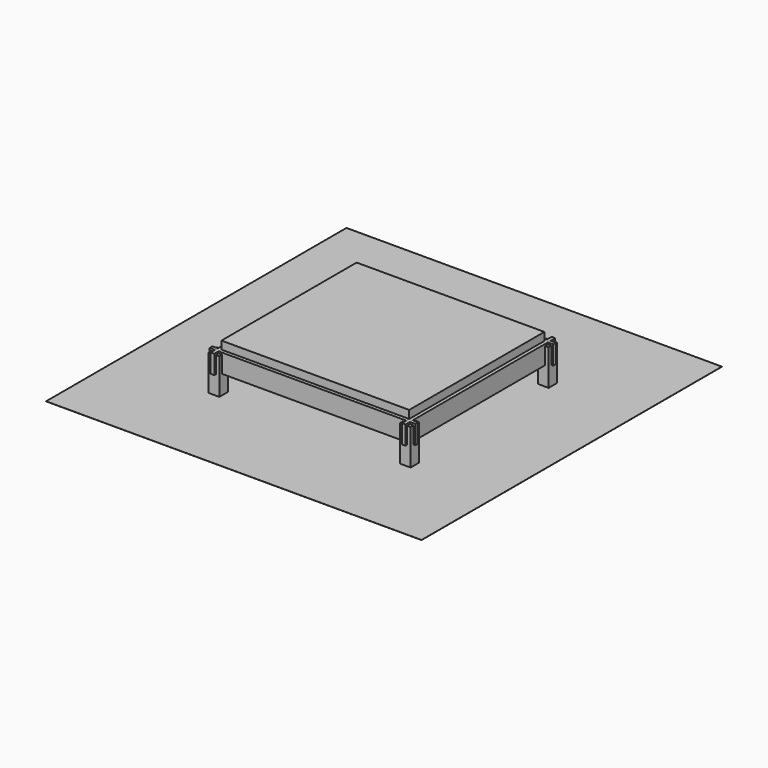
from build123d import *

# Parameters (mm, degrees)
BOX001_W                 = 38
BOX001_H                 = 38
BOX001_DEPTH             = 380
BOX002_W                 = 38
BOX002_H                 = 38
BOX002_DEPTH             = 380
BOX003_W                 = 38
BOX003_H                 = 38
BOX003_DEPTH             = 380
BOX004_W                 = 38
BOX004_H                 = 38
BOX004_DEPTH             = 200
BOX005_W                 = 38
BOX005_H                 = 38
BOX005_DEPTH             = 200
BOX_W                    = 76
BOX_H                    = 76
BOX_DEPTH                = 200
FUSION_PLACEMENT_ANGLE   = 90
BOX019_W                 = 2000
BOX019_H                 = 1800
BOX019_DEPTH             = 200
BOX020_W                 = 2000
BOX020_H                 = 180
BOX020_DEPTH             = 18
BOX021_W                 = 240
BOX021_H                 = 78
BOX021_DEPTH             = 78
BOX024_W                 = 200
BOX024_H                 = 38
BOX024_DEPTH             = 100
BOX023_W                 = 200
BOX023_H                 = 38
BOX023_DEPTH             = 100
BOX017_W                 = 1992
BOX017_H                 = 38
BOX017_DEPTH             = 200
BOX027_W                 = 200
BOX027_H                 = 38
BOX027_DEPTH             = 100
BOX026_W                 = 200
BOX026_H                 = 38
BOX026_DEPTH             = 100
BOX015_W                 = 2192
BOX015_H                 = 38
BOX015_DEPTH             = 200
BOX022_W                 = 1800
BOX022_H                 = 100
BOX022_DEPTH             = 18
ARRAY_X_COUNT            = 11
ARRAY_X_PITCH            = 180
ARRAY_Y_COUNT            = 2
ARRAY_Y_PITCH            = 1
BOX031_W                 = 2000
BOX031_H                 = 38
BOX031_DEPTH             = 58
BOX033_W                 = 4000
BOX033_H                 = 4000
BOX033_DEPTH             = 1
CLONE_PLACEMENT_ANGLE    = 90
CLONE001_PLACEMENT_ANGLE = 180
CLONE002_PLACEMENT_ANGLE = 90


with BuildPart() as box001:
    # Box001 → Box001 (new body)
    with BuildSketch(Plane(origin=(-38, 0, 0), x_dir=(1, 0, 0), z_dir=(0, 0, 1))):
        with Locations((19, 19)):
            Rectangle(BOX001_W, BOX001_H)
    extrude(amount=BOX001_DEPTH)


with BuildPart() as box002:
    # Box002 → Box002 (new body)
    with BuildSketch(Plane(origin=(38, 76, 0), x_dir=(1, 0, 0), z_dir=(0, 0, 1))):
        with Locations((19, 19)):
            Rectangle(BOX002_W, BOX002_H)
    extrude(amount=BOX002_DEPTH)


with BuildPart() as box003:
    # Box003 → Box003 (new body)
    with BuildSketch(Plane(origin=(-38, 76, 0), x_dir=(1, 0, 0), z_dir=(0, 0, 1))):
        with Locations((19, 19)):
            Rectangle(BOX003_W, BOX003_H)
    extrude(amount=BOX003_DEPTH)


with BuildPart() as cube004:
    # Box004 → Box004 (new body)
    with BuildSketch(Plane(origin=(-38, 38, 0), x_dir=(1, 0, 0), z_dir=(0, 0, 1))):
        with Locations((19, 19)):
            Rectangle(BOX004_W, BOX004_H)
    extrude(amount=BOX004_DEPTH)


with BuildPart() as cube005:
    # Box005 → Box005 (new body)
    with BuildSketch(Plane(origin=(0, 76, 0), x_dir=(1, 0, 0), z_dir=(0, 0, 1))):
        with Locations((19, 19)):
            Rectangle(BOX005_W, BOX005_H)
    extrude(amount=BOX005_DEPTH)


with BuildPart() as obj1:
    # Box → Box (new body)
    with BuildSketch(Plane.XY):
        with Locations((38, 38)):
            Rectangle(BOX_W, BOX_H)
    extrude(amount=BOX_DEPTH)

    # Fusion: union Box001, Box002, Box003, Cube004, Cube005
    add(box001.part)
    add(box002.part)
    add(box003.part)
    add(cube004.part)
    add(cube005.part)


with BuildPart() as obj1_1:
    # Fusion placement: moved
    add(obj1.part.moved(Location((76, 0, 0))).rotate(Axis((76, 0, 0), (0, 0, 1)), FUSION_PLACEMENT_ANGLE))


with BuildPart() as obj2:
    # Box019 → Box019 (new body)
    with BuildSketch(Plane(origin=(38, 38, 285), x_dir=(1, 0, 0), z_dir=(0, 0, 1))):
        with Locations((1000, 900)):
            Rectangle(BOX019_W, BOX019_H)
    extrude(amount=BOX019_DEPTH)


with BuildPart() as obj3:
    # Box020 → Box020 (new body)
    with BuildSketch(Plane(origin=(40, 860, 240), x_dir=(1, 0, 0), z_dir=(0, 0, 1))):
        with Locations((1000, 90)):
            Rectangle(BOX020_W, BOX020_H)
    extrude(amount=BOX020_DEPTH)


with BuildPart() as obj4:
    # Box021 → Box021 (new body)
    with BuildSketch(Plane(origin=(1100, 910, 0), x_dir=(0, 0, 1), z_dir=(-1, 0, 0))):
        with Locations((120, 39)):
            Rectangle(BOX021_W, BOX021_H)
    extrude(amount=BOX021_DEPTH)


with BuildPart() as h001:
    # Box024 → Box024 (new body)
    with BuildSketch(Plane(origin=(-100, 1838, 200), x_dir=(1, 0, 0), z_dir=(0, 0, 1))):
        with Locations((100, 19)):
            Rectangle(BOX024_W, BOX024_H)
    extrude(amount=BOX024_DEPTH)


with BuildPart() as v001:
    # Box023 → Box023 (new body)
    with BuildSketch(Plane(origin=(-100, 0, 200), x_dir=(1, 0, 0), z_dir=(0, 0, 1))):
        with Locations((100, 19)):
            Rectangle(BOX023_W, BOX023_H)
    extrude(amount=BOX023_DEPTH)


with BuildPart() as s_v:
    # Box017 → Box017 (new body)
    with BuildSketch(Plane(origin=(38, -58, 200), x_dir=(0, 1, 0), z_dir=(0, 0, 1))):
        with Locations((996, 19)):
            Rectangle(BOX017_W, BOX017_H)
    extrude(amount=BOX017_DEPTH)

    # Cut: cut V001
    add(v001.part, mode=Mode.SUBTRACT)

    # Cut001: cut H001
    add(h001.part, mode=Mode.SUBTRACT)


with BuildPart() as l003:
    # Box027 → Box027 (new body)
    with BuildSketch(Plane(origin=(2076, -100, 300), x_dir=(0, 1, 0), z_dir=(0, 0, 1))):
        with Locations((100, 19)):
            Rectangle(BOX027_W, BOX027_H)
    extrude(amount=BOX027_DEPTH)


with BuildPart() as l002:
    # Box026 → Box026 (new body)
    with BuildSketch(Plane(origin=(38, -100, 300), x_dir=(0, 1, 0), z_dir=(0, 0, 1))):
        with Locations((100, 19)):
            Rectangle(BOX026_W, BOX026_H)
    extrude(amount=BOX026_DEPTH)


with BuildPart() as s_r:
    # Box015 → Box015 (new body)
    with BuildSketch(Plane(origin=(-58, 0, 200), x_dir=(1, 0, 0), z_dir=(0, 0, 1))):
        with Locations((1096, 19)):
            Rectangle(BOX015_W, BOX015_H)
    extrude(amount=BOX015_DEPTH)

    # Cut003: cut L002
    add(l002.part, mode=Mode.SUBTRACT)

    # Cut004: cut L003
    add(l003.part, mode=Mode.SUBTRACT)


with BuildPart() as array:
    # Box022 → Box022 (new body)
    with BuildSketch(Plane(origin=(110, 0, 277), x_dir=(0, 1, 0), z_dir=(0, 0, -1))):
        with Locations((900, 50)):
            Rectangle(BOX022_W, BOX022_H)
    extrude(amount=BOX022_DEPTH)


with BuildPart() as array_copy1:
    # Array X: instance of Array
    add(array.part.moved(Location(Vector(1, 0, 0) * (1 * ARRAY_X_PITCH))))


with BuildPart() as array_copy2:
    # Array X: instance of Array
    add(array.part.moved(Location(Vector(1, 0, 0) * (2 * ARRAY_X_PITCH))))


with BuildPart() as array_copy3:
    # Array X: instance of Array
    add(array.part.moved(Location(Vector(1, 0, 0) * (3 * ARRAY_X_PITCH))))


with BuildPart() as array_copy4:
    # Array X: instance of Array
    add(array.part.moved(Location(Vector(1, 0, 0) * (4 * ARRAY_X_PITCH))))


with BuildPart() as array_copy5:
    # Array X: instance of Array
    add(array.part.moved(Location(Vector(1, 0, 0) * (5 * ARRAY_X_PITCH))))


with BuildPart() as array_copy6:
    # Array X: instance of Array
    add(array.part.moved(Location(Vector(1, 0, 0) * (6 * ARRAY_X_PITCH))))


with BuildPart() as array_copy7:
    # Array X: instance of Array
    add(array.part.moved(Location(Vector(1, 0, 0) * (7 * ARRAY_X_PITCH))))


with BuildPart() as array_copy8:
    # Array X: instance of Array
    add(array.part.moved(Location(Vector(1, 0, 0) * (8 * ARRAY_X_PITCH))))


with BuildPart() as array_copy9:
    # Array X: instance of Array
    add(array.part.moved(Location(Vector(1, 0, 0) * (9 * ARRAY_X_PITCH))))


with BuildPart() as array_copy10:
    # Array X: instance of Array
    add(array.part.moved(Location(Vector(1, 0, 0) * (10 * ARRAY_X_PITCH))))


with BuildPart() as array_copy11:
    # Array Y: instance of Array
    add(array.part.moved(Location(Vector(0, 1, 0) * (1 * ARRAY_Y_PITCH))))


with BuildPart() as array_copy12:
    # Array Y: instance of Array copy1
    add(array_copy1.part.moved(Location(Vector(0, 1, 0) * (1 * ARRAY_Y_PITCH))))


with BuildPart() as array_copy13:
    # Array Y: instance of Array copy2
    add(array_copy2.part.moved(Location(Vector(0, 1, 0) * (1 * ARRAY_Y_PITCH))))


with BuildPart() as array_copy14:
    # Array Y: instance of Array copy3
    add(array_copy3.part.moved(Location(Vector(0, 1, 0) * (1 * ARRAY_Y_PITCH))))


with BuildPart() as array_copy15:
    # Array Y: instance of Array copy4
    add(array_copy4.part.moved(Location(Vector(0, 1, 0) * (1 * ARRAY_Y_PITCH))))


with BuildPart() as array_copy16:
    # Array Y: instance of Array copy5
    add(array_copy5.part.moved(Location(Vector(0, 1, 0) * (1 * ARRAY_Y_PITCH))))


with BuildPart() as array_copy17:
    # Array Y: instance of Array copy6
    add(array_copy6.part.moved(Location(Vector(0, 1, 0) * (1 * ARRAY_Y_PITCH))))


with BuildPart() as array_copy18:
    # Array Y: instance of Array copy7
    add(array_copy7.part.moved(Location(Vector(0, 1, 0) * (1 * ARRAY_Y_PITCH))))


with BuildPart() as array_copy19:
    # Array Y: instance of Array copy8
    add(array_copy8.part.moved(Location(Vector(0, 1, 0) * (1 * ARRAY_Y_PITCH))))


with BuildPart() as array_copy20:
    # Array Y: instance of Array copy9
    add(array_copy9.part.moved(Location(Vector(0, 1, 0) * (1 * ARRAY_Y_PITCH))))


with BuildPart() as array_copy21:
    # Array Y: instance of Array copy10
    add(array_copy10.part.moved(Location(Vector(0, 1, 0) * (1 * ARRAY_Y_PITCH))))


with BuildPart() as array_1:
    # Array placement: moved
    add(array.part.moved(Location((0, 38, 0))))


with BuildPart() as array_copy1_1:
    # Array placement: moved
    add(array_copy1.part.moved(Location((0, 38, 0))))


with BuildPart() as array_copy2_1:
    # Array placement: moved
    add(array_copy2.part.moved(Location((0, 38, 0))))


with BuildPart() as array_copy3_1:
    # Array placement: moved
    add(array_copy3.part.moved(Location((0, 38, 0))))


with BuildPart() as array_copy4_1:
    # Array placement: moved
    add(array_copy4.part.moved(Location((0, 38, 0))))


with BuildPart() as array_copy5_1:
    # Array placement: moved
    add(array_copy5.part.moved(Location((0, 38, 0))))


with BuildPart() as array_copy6_1:
    # Array placement: moved
    add(array_copy6.part.moved(Location((0, 38, 0))))


with BuildPart() as array_copy7_1:
    # Array placement: moved
    add(array_copy7.part.moved(Location((0, 38, 0))))


with BuildPart() as array_copy8_1:
    # Array placement: moved
    add(array_copy8.part.moved(Location((0, 38, 0))))


with BuildPart() as array_copy9_1:
    # Array placement: moved
    add(array_copy9.part.moved(Location((0, 38, 0))))


with BuildPart() as array_copy10_1:
    # Array placement: moved
    add(array_copy10.part.moved(Location((0, 38, 0))))


with BuildPart() as array_copy11_1:
    # Array placement: moved
    add(array_copy11.part.moved(Location((0, 38, 0))))


with BuildPart() as array_copy12_1:
    # Array placement: moved
    add(array_copy12.part.moved(Location((0, 38, 0))))


with BuildPart() as array_copy13_1:
    # Array placement: moved
    add(array_copy13.part.moved(Location((0, 38, 0))))


with BuildPart() as array_copy14_1:
    # Array placement: moved
    add(array_copy14.part.moved(Location((0, 38, 0))))


with BuildPart() as array_copy15_1:
    # Array placement: moved
    add(array_copy15.part.moved(Location((0, 38, 0))))


with BuildPart() as array_copy16_1:
    # Array placement: moved
    add(array_copy16.part.moved(Location((0, 38, 0))))


with BuildPart() as array_copy17_1:
    # Array placement: moved
    add(array_copy17.part.moved(Location((0, 38, 0))))


with BuildPart() as array_copy18_1:
    # Array placement: moved
    add(array_copy18.part.moved(Location((0, 38, 0))))


with BuildPart() as array_copy19_1:
    # Array placement: moved
    add(array_copy19.part.moved(Location((0, 38, 0))))


with BuildPart() as array_copy20_1:
    # Array placement: moved
    add(array_copy20.part.moved(Location((0, 38, 0))))


with BuildPart() as array_copy21_1:
    # Array placement: moved
    add(array_copy21.part.moved(Location((0, 38, 0))))


with BuildPart() as obj5:
    # Box031 → Box031 (new body)
    with BuildSketch(Plane(origin=(0, 38, 200), x_dir=(1, 0, 0), z_dir=(0, 0, 1))):
        with Locations((1000, 19)):
            Rectangle(BOX031_W, BOX031_H)
    extrude(amount=BOX031_DEPTH)


with BuildPart() as boden:
    # Box033 → Box033 (new body)
    with BuildSketch(Plane(origin=(-1000, -1000, -1), x_dir=(1, 0, 0), z_dir=(0, 0, 1))):
        with Locations((2000, 2000)):
            Rectangle(BOX033_W, BOX033_H)
    extrude(amount=BOX033_DEPTH)


with BuildPart() as obj6:
    # Clone base: copy of obj1
    add(obj1_1.part)


with BuildPart() as obj6_1:
    # Clone placement: moved
    add(obj6.part.moved(Location((0, 1876, 0))).rotate(Axis((0, 1876, 0), (0, 0, -1)), CLONE_PLACEMENT_ANGLE))


with BuildPart() as obj7:
    # Clone001 base: copy of obj1
    add(obj1_1.part)


with BuildPart() as obj7_1:
    # Clone001 placement: moved
    add(obj7.part.moved(Location((2076, 1876, 0))).rotate(Axis((2076, 1876, 0), (0, 0, 1)), CLONE001_PLACEMENT_ANGLE))


with BuildPart() as obj8:
    # Clone002 base: copy of obj1
    add(obj1_1.part)


with BuildPart() as obj8_1:
    # Clone002 placement: moved
    add(obj8.part.moved(Location((2076, 0, 0))).rotate(Axis((2076, 0, 0), (0, 0, 1)), CLONE002_PLACEMENT_ANGLE))


with BuildPart() as s_h:
    # Clone003 base: copy of S-V
    add(s_v.part)


with BuildPart() as s_h_1:
    # Clone003 placement: moved
    add(s_h.part.moved(Location((2038, 0, 0))))


with BuildPart() as s_l:
    # Clone004 base: copy of S-R
    add(s_r.part)


with BuildPart() as s_l_1:
    # Clone004 placement: moved
    add(s_l.part.moved(Location((0, 1836, 0))))


with BuildPart() as obj9:
    # Clone005 base: copy of obj5
    add(obj5.part)


with BuildPart() as obj9_1:
    # Clone005 placement: moved
    add(obj9.part.moved(Location((0, 1762, 0))))


solid = Compound([obj1_1.part, obj2.part, obj3.part, obj4.part, s_v.part, s_r.part, array_1.part, array_copy1_1.part, array_copy2_1.part, array_copy3_1.part, array_copy4_1.part, array_copy5_1.part, array_copy6_1.part, array_copy7_1.part, array_copy8_1.part, array_copy9_1.part, array_copy10_1.part, array_copy11_1.part, array_copy12_1.part, array_copy13_1.part, array_copy14_1.part, array_copy15_1.part, array_copy16_1.part, array_copy17_1.part, array_copy18_1.part, array_copy19_1.part, array_copy20_1.part, array_copy21_1.part, obj5.part, boden.part, obj6_1.part, obj7_1.part, obj8_1.part, s_h_1.part, s_l_1.part, obj9_1.part])
